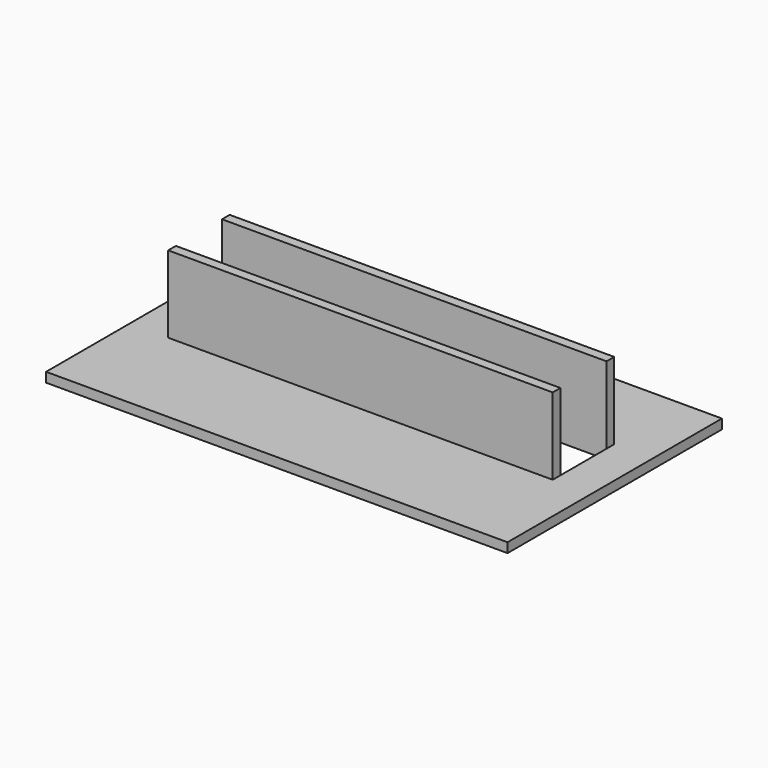
from build123d import *

# Parameters (mm, degrees)
F1_W     = 152.4
F1_H     = 88.498586
F1_W_2   = 127
F1_H_2   = 19.05
F2_DEPTH = 3.175
F3_W     = 127
F3_H     = 3.175
F4_DEPTH = 25.4


with BuildPart() as f2:
    # F1 (on face) → F2 (new body)
    with BuildSketch(Plane.XY):
        with Locations((5.21198, -39.078306)):
            Rectangle(F1_W, F1_H)
        with Locations((5.21198, -36.104013)):
            Rectangle(F1_W_2, F1_H_2, mode=Mode.SUBTRACT)
    extrude(amount=F2_DEPTH)

    # F3 (on face) → F4 (join)
    with BuildSketch(Plane.XY.offset(3.175)):
        with Locations((5.21198, -24.991513)):
            Rectangle(F3_W, F3_H)
        with Locations((5.21198, -47.216513)):
            Rectangle(F3_W, F3_H)
    extrude(amount=F4_DEPTH)


solid = f2.part
